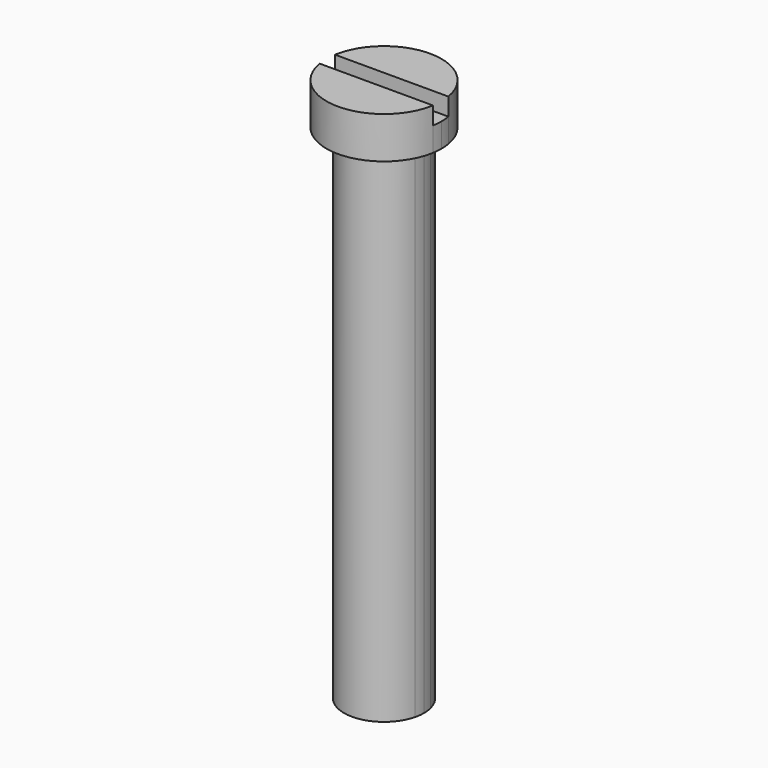
from build123d import *

# Parameters (mm, degrees)
F1_DEPTH = 3.302
F2_DEPTH = 1.905
F3_DEPTH = 39.751


with BuildPart() as f1:
    # F0 (on Top) → F1 (new body)
    with BuildSketch(Plane.XY):
        with BuildLine():
            Line((3.0691199537, 0.762), (4.4822904368, 0.762))
            ThreePointArc((4.4822904368, 0.762), (0, 4.5466), (-4.4822904368, 0.762))
            Line((-4.4822904368, 0.762), (-3.0691199537, 0.762))
            ThreePointArc((-3.0691199537, 0.762), (0, 3.1623), (3.0691199537, 0.762))
        make_face()
        with BuildLine():
            Line((-3.0691199537, 0.762), (3.0691199537, 0.762))
            ThreePointArc((3.0691199537, 0.762), (0, 3.1623), (-3.0691199537, 0.762))
        make_face()
    extrude(amount=F1_DEPTH)



with BuildPart() as f1b:
    # F0 (on Top) → F1, piece 2 (new body)
    with BuildSketch(Plane.XY):
        with BuildLine():
            Line((3.0691199537, -0.762), (-3.0691199537, -0.762))
            ThreePointArc((-3.0691199537, -0.762), (0, -3.1623), (3.0691199537, -0.762))
        make_face()
        with BuildLine():
            ThreePointArc((-4.4822904368, -0.762), (0, -4.5466), (4.4822904368, -0.762))
            Line((4.4822904368, -0.762), (3.0691199537, -0.762))
            ThreePointArc((3.0691199537, -0.762), (0, -3.1623), (-3.0691199537, -0.762))
            Line((-3.0691199537, -0.762), (-4.4822904368, -0.762))
        make_face()
    extrude(amount=F1_DEPTH)


with BuildPart() as f1_1:
    add(f1.part)

    add(f1b.part)  # F2 merges F1b
    # F0 (on Top) → F2 (join)
    with BuildSketch(Plane.XY):
        with BuildLine():
            ThreePointArc((3.1623, 0), (3.1389185494, 0.3838380261), (3.0691199537, 0.762))
            Line((3.0691199537, 0.762), (-3.0691199537, 0.762))
            ThreePointArc((-3.0691199537, 0.762), (-3.1623, 0), (-3.0691199537, -0.762))
            Line((-3.0691199537, -0.762), (3.0691199537, -0.762))
            ThreePointArc((3.0691199537, -0.762), (3.1389185494, -0.3838380261), (3.1623, 0))
        make_face()
        with BuildLine():
            ThreePointArc((4.5466, 0), (4.5304940823, 0.3823544559), (4.4822904368, 0.762))
            Line((4.4822904368, 0.762), (3.0691199537, 0.762))
            ThreePointArc((3.0691199537, 0.762), (3.1389185494, 0.3838380261), (3.1623, 0))
            ThreePointArc((3.1623, 0), (3.1389185494, -0.3838380261), (3.0691199537, -0.762))
            Line((3.0691199537, -0.762), (4.4822904368, -0.762))
            ThreePointArc((4.4822904368, -0.762), (4.5304940823, -0.3823544559), (4.5466, 0))
        make_face()
        with BuildLine():
            Line((-3.0691199537, 0.762), (-4.4822904368, 0.762))
            ThreePointArc((-4.4822904368, 0.762), (-4.5466, 0), (-4.4822904368, -0.762))
            Line((-4.4822904368, -0.762), (-3.0691199537, -0.762))
            ThreePointArc((-3.0691199537, -0.762), (-3.1623, 0), (-3.0691199537, 0.762))
        make_face()
    extrude(amount=F2_DEPTH)

    # F0 (on Top) → F3 (join)
    with BuildSketch(Plane.XY):
        with BuildLine():
            Line((-3.0691199537, 0.762), (3.0691199537, 0.762))
            ThreePointArc((3.0691199537, 0.762), (0, 3.1623), (-3.0691199537, 0.762))
        make_face()
        with BuildLine():
            ThreePointArc((3.1623, 0), (3.1389185494, 0.3838380261), (3.0691199537, 0.762))
            Line((3.0691199537, 0.762), (-3.0691199537, 0.762))
            ThreePointArc((-3.0691199537, 0.762), (-3.1623, 0), (-3.0691199537, -0.762))
            Line((-3.0691199537, -0.762), (3.0691199537, -0.762))
            ThreePointArc((3.0691199537, -0.762), (3.1389185494, -0.3838380261), (3.1623, 0))
        make_face()
        with BuildLine():
            Line((3.0691199537, -0.762), (-3.0691199537, -0.762))
            ThreePointArc((-3.0691199537, -0.762), (0, -3.1623), (3.0691199537, -0.762))
        make_face()
    extrude(amount=-F3_DEPTH)


solid = f1_1.part
